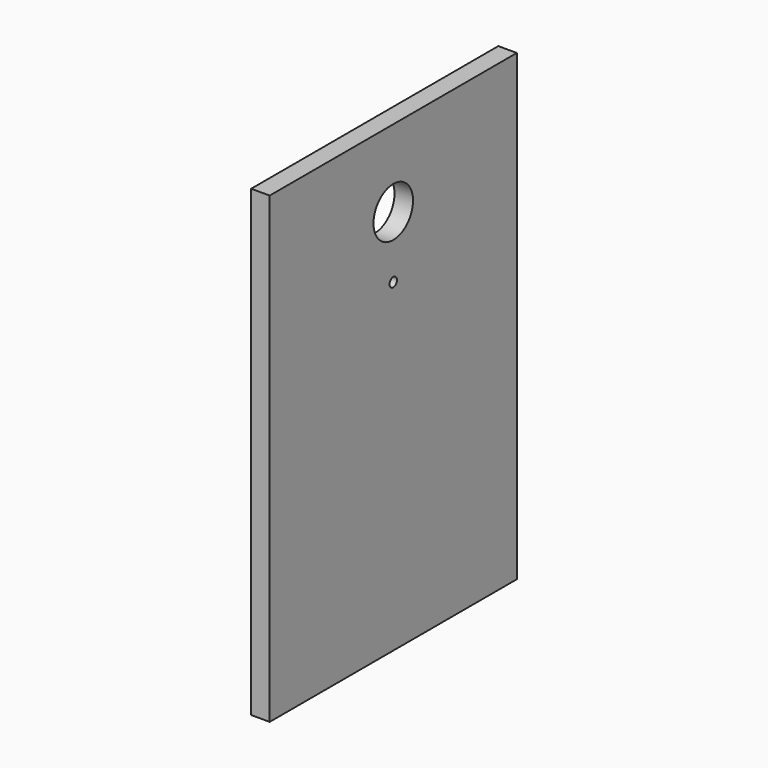
from build123d import *

# Parameters (mm, degrees)
SKETCH_W      = 200
SKETCH_H      = 300
PAD_DEPTH     = 12
SKETCH001_R   = 16
SKETCH001_R_2 = 3
POCKET_DEPTH  = 12.001


with BuildPart() as part:
    # Sketch → Pad (new body)
    with BuildSketch(Plane.YZ):
        Rectangle(SKETCH_W, SKETCH_H)
    extrude(amount=PAD_DEPTH)

    # Sketch001 (on Face5 of Pad) → Pocket (cut, through all)
    with BuildSketch(Plane(origin=(0, 0, 0), x_dir=(0, 1, 0), z_dir=(-1, 0, 0))):
        with Locations((0, -100)):
            Circle(SKETCH001_R)
        with Locations((0, -60)):
            Circle(SKETCH001_R_2)
    extrude(amount=-POCKET_DEPTH, mode=Mode.SUBTRACT)


solid = part.part
